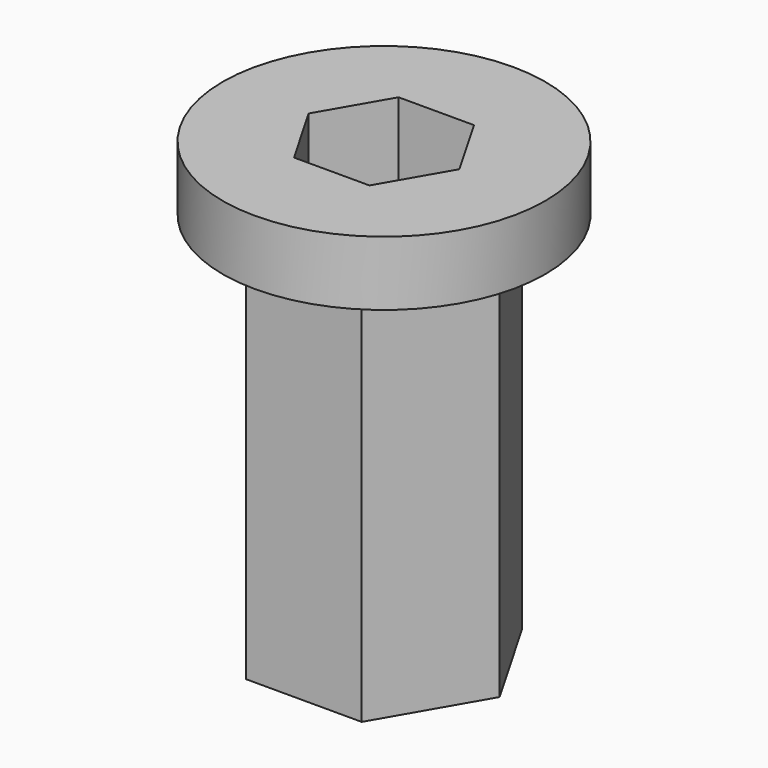
from build123d import *

# Parameters (mm, degrees)
PAD_DEPTH     = 14
SKETCH001_R   = 5
SKETCH001_R_2 = 2.678441
PAD001_DEPTH  = 2


with BuildPart() as part:
    # Sketch → Pad (new body)
    with BuildSketch(Plane.XY):
        Polygon((3.585345, 0), (1.792673, 3.105), (-1.792673, 3.105), (-3.585345, 0), (-1.792673, -3.105), (1.792673, -3.105), align=None)
        Polygon((-2.338269, 0), (-1.169134, -2.025), (1.169134, -2.025), (2.338269, 0), (1.169134, 2.025), (-1.169134, 2.025), align=None, mode=Mode.SUBTRACT)
    extrude(amount=PAD_DEPTH)

    # Sketch001 (on Face14 of Pad) → Pad001 (join)
    with BuildSketch(Plane.XY.offset(14)):
        Circle(SKETCH001_R)
        Circle(SKETCH001_R_2, mode=Mode.SUBTRACT)
    extrude(amount=-PAD001_DEPTH)


solid = part.part
